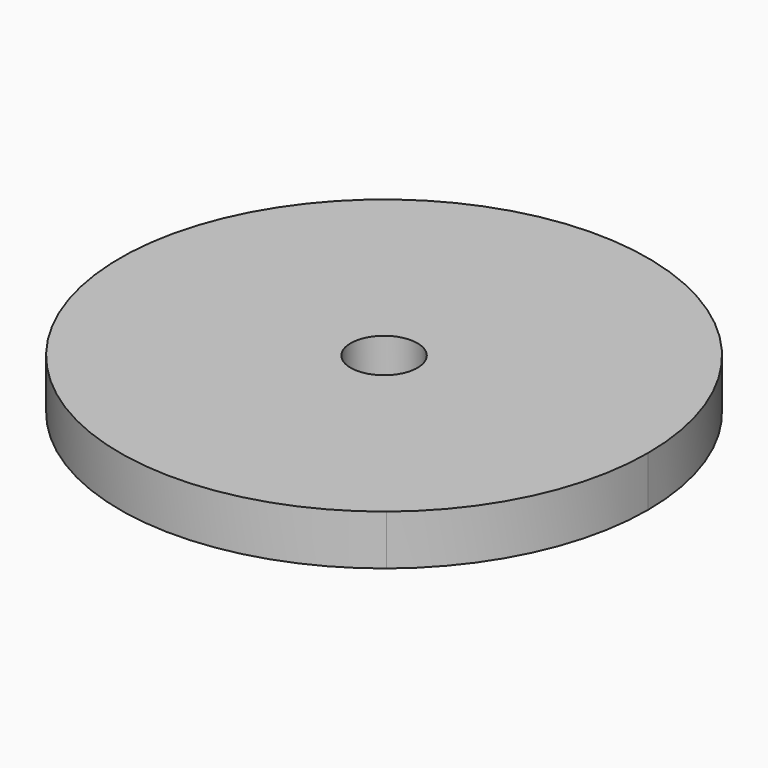
from build123d import *

# Parameters (mm, degrees)
F1_DEPTH = 9.525
F3_D     = 12.7


with BuildPart() as f1:
    # F0 (on Top) → F1 (new body)
    with BuildSketch(Plane.XY):
        with BuildLine():
            ThreePointArc((31.656258, -38.954543), (45.324235, -21.570553), (50.195369, 0))
            ThreePointArc((50.195369, 0), (-45.324235, 21.570553), (31.656258, -38.954543))
        make_face()
    extrude(amount=F1_DEPTH)

    # F3 (through all)
    with Locations(Plane.XY.offset(9.525)):
        with Locations((0, 0)):
            Hole(F3_D / 2)


solid = f1.part
